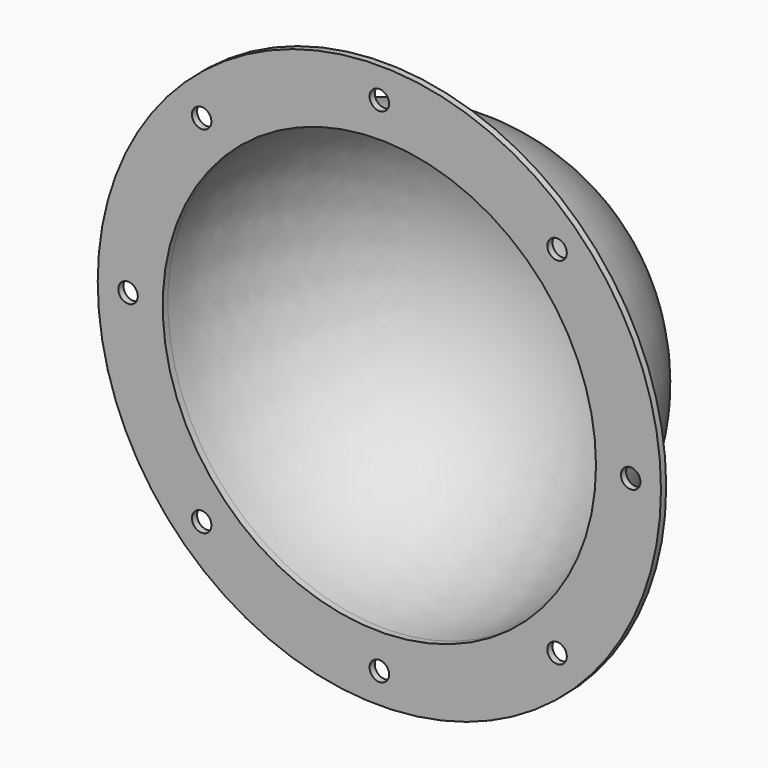
from build123d import *

# Parameters (mm, degrees)
SKETCH001_R = 2.25
HOLE_DEPTH  = 23.648064
HOLE_TIPS_R = 2.25


with BuildPart() as part:
    # Sketch → Revolution (revolve)
    with BuildSketch(Plane.XY):
        with BuildLine():
            Line((51.5, 1.5), (65, 1.5))
            Line((65, 1.5), (65, 0))
            Line((65, 0), (50, 0))
            Line((50, 0), (50, 1.50003))
            ThreePointArc((50, 1.50003), (35.355329, 36.85535), (0, 51.5))
            Line((0, 53), (0, 51.5))
            ThreePointArc((51.5, 1.5), (36.415999, 37.915999), (0, 53))
        make_face()
    revolve(axis=Axis((0, 0, 0), (0, 1, 0)))

    # Sketch001 (on Face3 of Revolution) → Hole (cut)
    with BuildSketch(Plane.XZ):
        Circle(SKETCH001_R)
        with Locations((0, 58)):
            Circle(SKETCH001_R)
        with Locations((41.012193, 41.012193)):
            Circle(SKETCH001_R)
        with Locations((58, 0)):
            Circle(SKETCH001_R)
        with Locations((-41.012193, 41.012193)):
            Circle(SKETCH001_R)
        with Locations((-58, 0)):
            Circle(SKETCH001_R)
        with Locations((-41.012193, -41.012193)):
            Circle(SKETCH001_R)
        with Locations((0, -58)):
            Circle(SKETCH001_R)
        with Locations((41.012193, -41.012193)):
            Circle(SKETCH001_R)
    extrude(amount=-HOLE_DEPTH, mode=Mode.SUBTRACT)

    # Hole tips → Hole tip 1 section 0
    with BuildSketch(Plane.XZ.offset(-23.648064), mode=Mode.PRIVATE) as hole_tip_1_s0:
        Circle(HOLE_TIPS_R)
    loft([hole_tip_1_s0.sketch, Vertex(0, 25, 0)], mode=Mode.SUBTRACT)

    # Hole tips → Hole tip 2 section 0
    with BuildSketch(Plane.XZ.offset(-23.648064), mode=Mode.PRIVATE) as hole_tip_2_s0:
        with Locations((0, 58)):
            Circle(HOLE_TIPS_R)
    loft([hole_tip_2_s0.sketch, Vertex(0, 25, 58)], mode=Mode.SUBTRACT)

    # Hole tips → Hole tip 3 section 0
    with BuildSketch(Plane.XZ.offset(-23.648064), mode=Mode.PRIVATE) as hole_tip_3_s0:
        with Locations((41.012193, 41.012193)):
            Circle(HOLE_TIPS_R)
    loft([hole_tip_3_s0.sketch, Vertex(41.012193, 25, 41.012193)], mode=Mode.SUBTRACT)

    # Hole tips → Hole tip 4 section 0
    with BuildSketch(Plane.XZ.offset(-23.648064), mode=Mode.PRIVATE) as hole_tip_4_s0:
        with Locations((58, 0)):
            Circle(HOLE_TIPS_R)
    loft([hole_tip_4_s0.sketch, Vertex(58, 25, 0)], mode=Mode.SUBTRACT)

    # Hole tips → Hole tip 5 section 0
    with BuildSketch(Plane.XZ.offset(-23.648064), mode=Mode.PRIVATE) as hole_tip_5_s0:
        with Locations((-41.012193, 41.012193)):
            Circle(HOLE_TIPS_R)
    loft([hole_tip_5_s0.sketch, Vertex(-41.012193, 25, 41.012193)], mode=Mode.SUBTRACT)

    # Hole tips → Hole tip 6 section 0
    with BuildSketch(Plane.XZ.offset(-23.648064), mode=Mode.PRIVATE) as hole_tip_6_s0:
        with Locations((-58, 0)):
            Circle(HOLE_TIPS_R)
    loft([hole_tip_6_s0.sketch, Vertex(-58, 25, 0)], mode=Mode.SUBTRACT)

    # Hole tips → Hole tip 7 section 0
    with BuildSketch(Plane.XZ.offset(-23.648064), mode=Mode.PRIVATE) as hole_tip_7_s0:
        with Locations((-41.012193, -41.012193)):
            Circle(HOLE_TIPS_R)
    loft([hole_tip_7_s0.sketch, Vertex(-41.012193, 25, -41.012193)], mode=Mode.SUBTRACT)

    # Hole tips → Hole tip 8 section 0
    with BuildSketch(Plane.XZ.offset(-23.648064), mode=Mode.PRIVATE) as hole_tip_8_s0:
        with Locations((0, -58)):
            Circle(HOLE_TIPS_R)
    loft([hole_tip_8_s0.sketch, Vertex(0, 25, -58)], mode=Mode.SUBTRACT)

    # Hole tips → Hole tip 9 section 0
    with BuildSketch(Plane.XZ.offset(-23.648064), mode=Mode.PRIVATE) as hole_tip_9_s0:
        with Locations((41.012193, -41.012193)):
            Circle(HOLE_TIPS_R)
    loft([hole_tip_9_s0.sketch, Vertex(41.012193, 25, -41.012193)], mode=Mode.SUBTRACT)


solid = part.part
